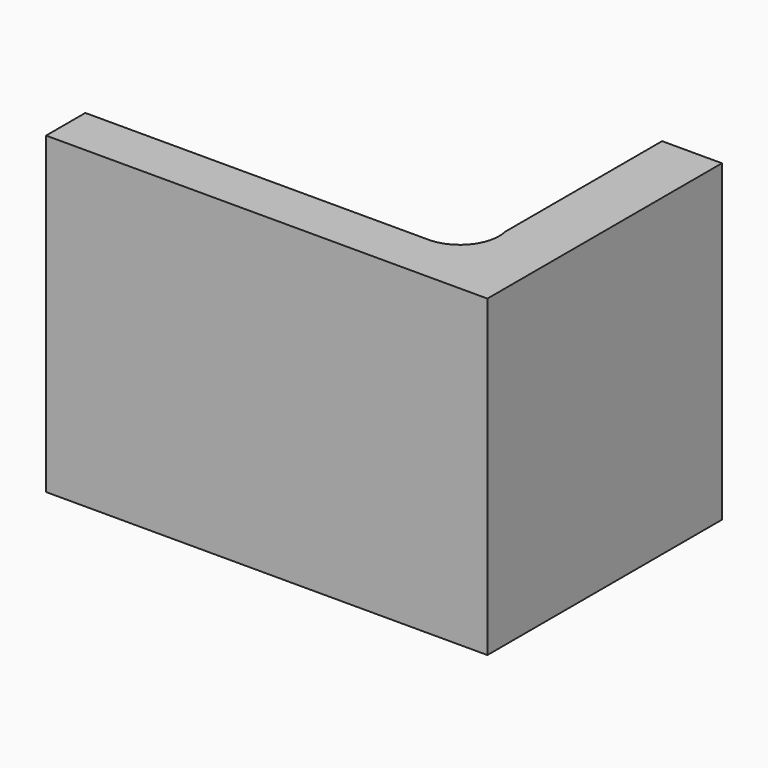
from build123d import *

# Parameters (mm, degrees)
F1_DEPTH = 32


with BuildPart() as f1:
    # F0 (on Top) → F1 (new body)
    with BuildSketch(Plane.XY):
        with BuildLine():
            Line((-50.620392, 10.436498), (-50.620392, 5.436498))
            Line((-50.620392, 5.436498), (-5.620392, 5.436498))
            Line((-5.620392, 5.436498), (-5.620392, 10.436498))
            Line((-5.620392, 10.436498), (-5.620392, 35.325318))
            Line((-5.620392, 35.325318), (-11.720392, 35.325318))
            Line((-11.720392, 35.325318), (-11.720392, 15.325318))
            ThreePointArc((-11.720392, 15.325318), (-12.49347, 11.942032), (-15.620392, 10.436498))
            Line((-15.620392, 10.436498), (-50.620392, 10.436498))
        make_face()
    extrude(amount=F1_DEPTH)


solid = f1.part
